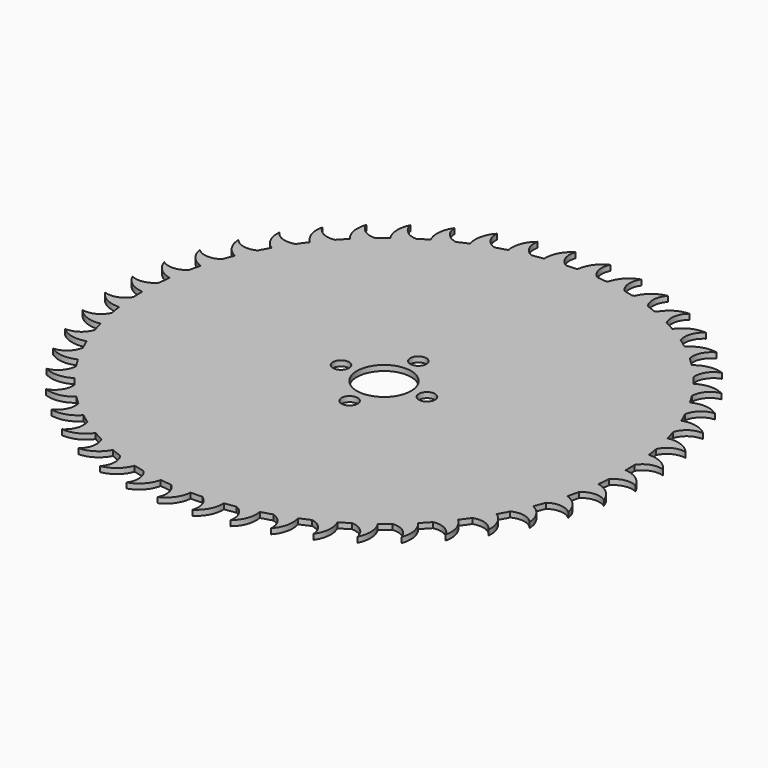
from build123d import *

# Parameters (mm, degrees)
F0_R     = 5.05
F1_DEPTH = 1
F3_D     = 3


with BuildPart() as f1:
    # F0 (on Top) → F1 (new body)
    with BuildSketch(Plane.XY):
        with BuildLine():
            ThreePointArc((3.446905, 45.121268), (2.522018, 47.024079), (2.866295, 49.11156))
            ThreePointArc((2.866295, 49.11156), (0.995967, 47.616879), (0.049732, 45.417597))
            ThreePointArc((0.049732, 45.417597), (-0.117989, 45.118553), (-0.438911, 44.997859))
            ThreePointArc((-0.438911, 44.997859), (-1.121382, 44.986026), (-1.803595, 44.963842))
            ThreePointArc((-1.803595, 44.963842), (-2.157968, 45.013712), (-2.472091, 45.185161))
            ThreePointArc((-2.472091, 45.185161), (-3.637432, 46.950971), (-3.568571, 49.06553))
            ThreePointArc((-3.568571, 49.06553), (-5.328493, 47.154856), (-5.873679, 44.615019))
            ThreePointArc((-5.873679, 44.615019), (-6.934258, 44.462524), (-7.990907, 44.284821))
            ThreePointArc((-7.990907, 44.284821), (-9.649056, 45.89051), (-9.942378, 48.179976))
            ThreePointArc((-9.942378, 48.179976), (-11.43785, 46.055932), (-11.646857, 43.466662))
            ThreePointArc((-11.646857, 43.466662), (-12.678459, 43.177039), (-13.702873, 42.862936))
            ThreePointArc((-13.702873, 42.862936), (-15.55642, 44.238456), (-16.146069, 46.470049))
            ThreePointArc((-16.146069, 46.470049), (-17.351503, 44.168978), (-17.220754, 41.574579))
            ThreePointArc((-17.220754, 41.574579), (-18.205727, 41.152782), (-19.180378, 40.707654))
            ThreePointArc((-19.180378, 40.707654), (-21.19761, 41.829469), (-22.073495, 43.965006))
            ThreePointArc((-22.073495, 43.965006), (-22.968267, 41.52628), (-22.5, 38.971143))
            ThreePointArc((-22.5, 38.971143), (-23.421491, 38.42439), (-24.329703, 37.855852))
            ThreePointArc((-24.329703, 37.855852), (-26.476103, 38.704769), (-27.623238, 40.70771))
            ThreePointArc((-27.623238, 40.70771), (-28.192038, 38.173057), (-27.394264, 35.7009))
            ThreePointArc((-27.394264, 35.7009), (-28.236506, 35.038546), (-29.062739, 34.356327))
            ThreePointArc((-29.062739, 34.356327), (-31.301582, 34.917819), (-32.70034, 36.753894))
            ThreePointArc((-32.70034, 36.753894), (-32.933435, 34.166682), (-31.819805, 31.819805))
            ThreePointArc((-31.819805, 31.819805), (-32.568387, 31.053183), (-33.298504, 30.268955))
            ThreePointArc((-33.298504, 30.268955), (-35.591483, 30.533416), (-37.21793, 32.171208))
            ThreePointArc((-37.21793, 32.171208), (-37.111332, 29.575705), (-35.7009, 27.394264))
            ThreePointArc((-35.7009, 27.394264), (-36.343014, 26.536491), (-36.964522, 25.663673))
            ThreePointArc((-36.964522, 25.663673), (-39.272403, 25.626578), (-41.098711, 27.038065))
            ThreePointArc((-41.098711, 27.038065), (-40.654243, 24.47868), (-38.971143, 22.5))
            ThreePointArc((-38.971143, 22.5), (-39.495801, 21.565753), (-39.998067, 20.619279))
            ThreePointArc((-39.998067, 20.619279), (-42.281362, 20.281262), (-44.276281, 21.442292))
            ThreePointArc((-44.276281, 21.442292), (-43.501549, 18.962818), (-41.574579, 17.220754))
            ThreePointArc((-41.574579, 17.220754), (-41.972805, 16.226018), (-42.347234, 15.222082))
            ThreePointArc((-42.347234, 15.222082), (-44.566875, 14.588928), (-46.696272, 15.479636))
            ThreePointArc((-46.696272, 15.479636), (-45.604532, 13.122497), (-43.466662, 11.646857))
            ThreePointArc((-43.466662, 11.646857), (-43.731642, 10.608652), (-43.971828, 9.564432))
            ThreePointArc((-43.971828, 9.564432), (-46.089837, 8.646973), (-48.317277, 9.252119))
            ThreePointArc((-48.317277, 9.252119), (-46.927209, 7.057646), (-44.615019, 5.873679))
            ThreePointArc((-44.615019, 5.873679), (-44.742219, 4.809769), (-44.844052, 3.743132))
            ThreePointArc((-44.844052, 3.743132), (-46.824188, 2.557066), (-49.11156, 2.866295))
            ThreePointArc((-49.11156, 2.866295), (-47.446947, 0.872037), (-45, 0))
            ThreePointArc((-45, 0), (-44.987244, -1.071411), (-44.948981, -2.142214))
            ThreePointArc((-44.948981, -2.142214), (-46.757365, -3.576593), (-49.06553, -3.568571))
            ThreePointArc((-49.06553, -3.568571), (-47.154856, -5.328493), (-44.615019, -5.873679))
            ThreePointArc((-44.615019, -5.873679), (-44.462524, -6.934258), (-44.284821, -7.990907))
            ThreePointArc((-44.284821, -7.990907), (-45.89051, -9.649056), (-48.179976, -9.942378))
            ThreePointArc((-48.179976, -9.942378), (-46.055932, -11.43785), (-43.466662, -11.646857))
            ThreePointArc((-43.466662, -11.646857), (-43.177039, -12.678459), (-42.862936, -13.702873))
            ThreePointArc((-42.862936, -13.702873), (-44.238456, -15.55642), (-46.470049, -16.146069))
            ThreePointArc((-46.470049, -16.146069), (-44.168978, -17.351503), (-41.574579, -17.220754))
            ThreePointArc((-41.574579, -17.220754), (-41.152782, -18.205727), (-40.707654, -19.180378))
            ThreePointArc((-40.707654, -19.180378), (-41.829469, -21.19761), (-43.965006, -22.073495))
            ThreePointArc((-43.965006, -22.073495), (-41.52628, -22.968267), (-38.971143, -22.5))
            ThreePointArc((-38.971143, -22.5), (-38.42439, -23.421491), (-37.855852, -24.329703))
            ThreePointArc((-37.855852, -24.329703), (-38.704769, -26.476103), (-40.70771, -27.623238))
            ThreePointArc((-40.70771, -27.623238), (-38.173057, -28.192038), (-35.7009, -27.394264))
            ThreePointArc((-35.7009, -27.394264), (-35.038546, -28.236506), (-34.356327, -29.062739))
            ThreePointArc((-34.356327, -29.062739), (-34.917819, -31.301582), (-36.753894, -32.70034))
            ThreePointArc((-36.753894, -32.70034), (-34.166682, -32.933435), (-31.819805, -31.819805))
            ThreePointArc((-31.819805, -31.819805), (-31.053183, -32.568387), (-30.268955, -33.298504))
            ThreePointArc((-30.268955, -33.298504), (-30.533416, -35.591483), (-32.171208, -37.21793))
            ThreePointArc((-32.171208, -37.21793), (-29.575705, -37.111332), (-27.394264, -35.7009))
            ThreePointArc((-27.394264, -35.7009), (-26.536491, -36.343014), (-25.663673, -36.964522))
            ThreePointArc((-25.663673, -36.964522), (-25.626578, -39.272403), (-27.038065, -41.098711))
            ThreePointArc((-27.038065, -41.098711), (-24.47868, -40.654243), (-22.5, -38.971143))
            ThreePointArc((-22.5, -38.971143), (-21.565753, -39.495801), (-20.619279, -39.998067))
            ThreePointArc((-20.619279, -39.998067), (-20.281262, -42.281362), (-21.442292, -44.276281))
            ThreePointArc((-21.442292, -44.276281), (-18.962818, -43.501549), (-17.220754, -41.574579))
            ThreePointArc((-17.220754, -41.574579), (-16.226018, -41.972805), (-15.222082, -42.347234))
            ThreePointArc((-15.222082, -42.347234), (-14.588928, -44.566875), (-15.479636, -46.696272))
            ThreePointArc((-15.479636, -46.696272), (-13.122497, -45.604532), (-11.646857, -43.466662))
            ThreePointArc((-11.646857, -43.466662), (-10.608652, -43.731642), (-9.564432, -43.971828))
            ThreePointArc((-9.564432, -43.971828), (-8.646973, -46.089837), (-9.252119, -48.317277))
            ThreePointArc((-9.252119, -48.317277), (-7.057646, -46.927209), (-5.873679, -44.615019))
            ThreePointArc((-5.873679, -44.615019), (-4.809769, -44.742219), (-3.743132, -44.844052))
            ThreePointArc((-3.743132, -44.844052), (-2.557066, -46.824188), (-2.866295, -49.11156))
            ThreePointArc((-2.866295, -49.11156), (-0.872037, -47.446947), (0, -45))
            ThreePointArc((0, -45), (1.071411, -44.987244), (2.142214, -44.948981))
            ThreePointArc((2.142214, -44.948981), (3.576593, -46.757365), (3.568571, -49.06553))
            ThreePointArc((3.568571, -49.06553), (5.328493, -47.154856), (5.873679, -44.615019))
            ThreePointArc((5.873679, -44.615019), (6.934258, -44.462524), (7.990907, -44.284821))
            ThreePointArc((7.990907, -44.284821), (9.649056, -45.89051), (9.942378, -48.179976))
            ThreePointArc((9.942378, -48.179976), (11.43785, -46.055932), (11.646857, -43.466662))
            ThreePointArc((11.646857, -43.466662), (12.678459, -43.177039), (13.702873, -42.862936))
            ThreePointArc((13.702873, -42.862936), (15.55642, -44.238456), (16.146069, -46.470049))
            ThreePointArc((16.146069, -46.470049), (17.351503, -44.168978), (17.220754, -41.574579))
            ThreePointArc((17.220754, -41.574579), (18.205727, -41.152782), (19.180378, -40.707654))
            ThreePointArc((19.180378, -40.707654), (21.19761, -41.829469), (22.073495, -43.965006))
            ThreePointArc((22.073495, -43.965006), (22.968267, -41.52628), (22.5, -38.971143))
            ThreePointArc((22.5, -38.971143), (23.421491, -38.42439), (24.329703, -37.855852))
            ThreePointArc((24.329703, -37.855852), (26.476103, -38.704769), (27.623238, -40.70771))
            ThreePointArc((27.623238, -40.70771), (28.192038, -38.173057), (27.394264, -35.7009))
            ThreePointArc((27.394264, -35.7009), (28.236506, -35.038546), (29.062739, -34.356327))
            ThreePointArc((29.062739, -34.356327), (31.301582, -34.917819), (32.70034, -36.753894))
            ThreePointArc((32.70034, -36.753894), (32.933435, -34.166682), (31.819805, -31.819805))
            ThreePointArc((31.819805, -31.819805), (32.568387, -31.053183), (33.298504, -30.268955))
            ThreePointArc((33.298504, -30.268955), (35.591483, -30.533416), (37.21793, -32.171208))
            ThreePointArc((37.21793, -32.171208), (37.111332, -29.575705), (35.7009, -27.394264))
            ThreePointArc((35.7009, -27.394264), (36.343014, -26.536491), (36.964522, -25.663673))
            ThreePointArc((36.964522, -25.663673), (39.272403, -25.626578), (41.098711, -27.038065))
            ThreePointArc((41.098711, -27.038065), (40.654243, -24.47868), (38.971143, -22.5))
            ThreePointArc((38.971143, -22.5), (39.495801, -21.565753), (39.998067, -20.619279))
            ThreePointArc((39.998067, -20.619279), (42.281362, -20.281262), (44.276281, -21.442292))
            ThreePointArc((44.276281, -21.442292), (43.501549, -18.962818), (41.574579, -17.220754))
            ThreePointArc((41.574579, -17.220754), (41.972805, -16.226018), (42.347234, -15.222082))
            ThreePointArc((42.347234, -15.222082), (44.566875, -14.588928), (46.696272, -15.479636))
            ThreePointArc((46.696272, -15.479636), (45.604532, -13.122497), (43.466662, -11.646857))
            ThreePointArc((43.466662, -11.646857), (43.731642, -10.608652), (43.971828, -9.564432))
            ThreePointArc((43.971828, -9.564432), (46.089837, -8.646973), (48.317277, -9.252119))
            ThreePointArc((48.317277, -9.252119), (46.927209, -7.057646), (44.615019, -5.873679))
            ThreePointArc((44.615019, -5.873679), (44.742219, -4.809769), (44.844052, -3.743132))
            ThreePointArc((44.844052, -3.743132), (46.824188, -2.557066), (49.11156, -2.866295))
            ThreePointArc((49.11156, -2.866295), (47.446947, -0.872037), (45, 0))
            ThreePointArc((45, 0), (44.987244, 1.071411), (44.948981, 2.142214))
            ThreePointArc((44.948981, 2.142214), (46.757365, 3.576593), (49.06553, 3.568571))
            ThreePointArc((49.06553, 3.568571), (47.154856, 5.328493), (44.615019, 5.873679))
            ThreePointArc((44.615019, 5.873679), (44.462524, 6.934258), (44.284821, 7.990907))
            ThreePointArc((44.284821, 7.990907), (45.89051, 9.649056), (48.179976, 9.942378))
            ThreePointArc((48.179976, 9.942378), (46.055932, 11.43785), (43.466662, 11.646857))
            ThreePointArc((43.466662, 11.646857), (43.177039, 12.678459), (42.862936, 13.702873))
            ThreePointArc((42.862936, 13.702873), (44.238456, 15.55642), (46.470049, 16.146069))
            ThreePointArc((46.470049, 16.146069), (44.168978, 17.351503), (41.574579, 17.220754))
            ThreePointArc((41.574579, 17.220754), (41.152782, 18.205727), (40.707654, 19.180378))
            ThreePointArc((40.707654, 19.180378), (41.829469, 21.19761), (43.965006, 22.073495))
            ThreePointArc((43.965006, 22.073495), (41.52628, 22.968267), (38.971143, 22.5))
            ThreePointArc((38.971143, 22.5), (38.42439, 23.421491), (37.855852, 24.329703))
            ThreePointArc((37.855852, 24.329703), (38.704769, 26.476103), (40.70771, 27.623238))
            ThreePointArc((40.70771, 27.623238), (38.173057, 28.192038), (35.7009, 27.394264))
            ThreePointArc((35.7009, 27.394264), (35.038546, 28.236506), (34.356327, 29.062739))
            ThreePointArc((34.356327, 29.062739), (34.917819, 31.301582), (36.753894, 32.70034))
            ThreePointArc((36.753894, 32.70034), (34.166682, 32.933435), (31.819805, 31.819805))
            ThreePointArc((31.819805, 31.819805), (31.053183, 32.568387), (30.268955, 33.298504))
            ThreePointArc((30.268955, 33.298504), (30.533416, 35.591483), (32.171208, 37.21793))
            ThreePointArc((32.171208, 37.21793), (29.575705, 37.111332), (27.394264, 35.7009))
            ThreePointArc((27.394264, 35.7009), (26.536491, 36.343014), (25.663673, 36.964522))
            ThreePointArc((25.663673, 36.964522), (25.626578, 39.272403), (27.038065, 41.098711))
            ThreePointArc((27.038065, 41.098711), (24.47868, 40.654243), (22.5, 38.971143))
            ThreePointArc((22.5, 38.971143), (21.565753, 39.495801), (20.619279, 39.998067))
            ThreePointArc((20.619279, 39.998067), (20.281262, 42.281362), (21.442292, 44.276281))
            ThreePointArc((21.442292, 44.276281), (19.142344, 43.611119), (17.426509, 41.941356))
            ThreePointArc((17.426509, 41.941356), (17.157115, 41.72926), (16.814435, 41.740565))
            ThreePointArc((16.814435, 41.740565), (16.179385, 41.990803), (15.540613, 42.231379))
            ThreePointArc((15.540613, 42.231379), (15.232299, 42.413066), (15.007698, 42.691673))
            ThreePointArc((15.007698, 42.691673), (14.60681, 44.769026), (15.479636, 46.696272))
            ThreePointArc((15.479636, 46.696272), (13.286185, 45.736597), (11.802977, 43.857158))
            ThreePointArc((11.802977, 43.857158), (11.563572, 43.611713), (11.222348, 43.578193))
            ThreePointArc((11.222348, 43.578193), (10.560069, 43.743399), (9.89536, 43.89854))
            ThreePointArc((9.89536, 43.89854), (9.565969, 44.03843), (9.306924, 44.285338))
            ThreePointArc((9.306924, 44.285338), (8.638316, 46.292592), (9.252119, 48.317277))
            ThreePointArc((9.252119, 48.317277), (7.202696, 47.07951), (5.977493, 45.022552))
            ThreePointArc((5.977493, 45.022552), (5.772173, 44.747958), (5.438244, 44.670186))
            ThreePointArc((5.438244, 44.670186), (4.760066, 44.747534), (4.080794, 44.814586))
            ThreePointArc((4.080794, 44.814586), (3.735962, 44.910285), (3.446905, 45.121268))
        make_face()
        Circle(F0_R, mode=Mode.SUBTRACT)
    extrude(amount=F1_DEPTH)

    # F3 (through all)
    with Locations(Plane.XY.offset(1)):
        with Locations((0, 8), (-8, 0), (0, -8), (8, 0)):
            Hole(F3_D / 2)


solid = f1.part
